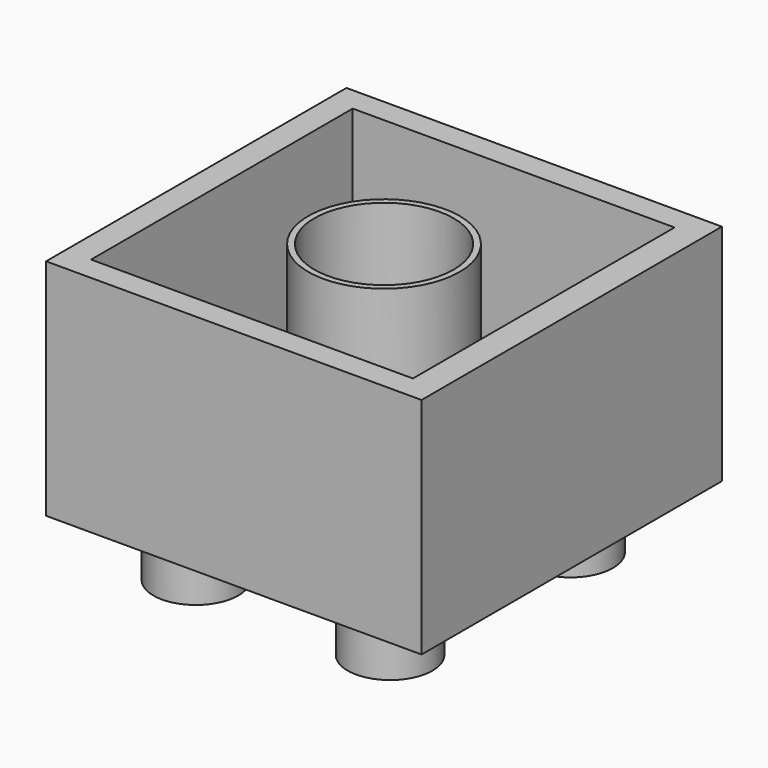
from build123d import *

# Parameters (mm, degrees)
F0_W     = 15.748
F0_H     = 15.748
F0_W_2   = 13.499342
F0_H_2   = 13.716
F1_DEPTH = 9.398
F0_R     = 3.175
F0_R_2   = 2.921
F2_DEPTH = 9.398
F3_W     = 13.579066
F3_H     = 13.832018
F4_DEPTH = 0.1
F5_R     = 1.778
F6_DEPTH = 2.54


with BuildPart() as f1:
    # F0 (on Top) → F1 (new body)
    with BuildSketch(Plane.XY):
        with Locations((-7.874, -33.232593)):
            Rectangle(F0_W, F0_H)
        with Locations((-7.923433, -33.232593)):
            Rectangle(F0_W_2, F0_H_2, mode=Mode.SUBTRACT)
    extrude(amount=F1_DEPTH)


with BuildPart() as f2:
    # F0 (on Top) → F2 (new body)
    with BuildSketch(Plane.XY):
        with Locations((-7.874, -33.232593)):
            Circle(F0_R)
        with Locations((-7.874, -33.232593)):
            Circle(F0_R_2, mode=Mode.SUBTRACT)
    extrude(amount=F2_DEPTH)


with BuildPart() as f4:
    # F3 (on Top) → F4 (new body)
    with BuildSketch(Plane.XY):
        with Locations((-7.993951, -33.262994)):
            Rectangle(F3_W, F3_H)
    extrude(amount=F4_DEPTH)

    # F5 (on Top) → F6 (join)
    with BuildSketch(Plane.XY):
        with Locations((-3.830078, -37.968907)):
            Circle(F5_R)
        with Locations((-3.761275, -28.590713)):
            Circle(F5_R)
        with Locations((-12.190933, -28.78669)):
            Circle(F5_R)
        with Locations((-12.124785, -37.785119)):
            Circle(F5_R)
    extrude(amount=-F6_DEPTH)


solid = Compound([f1.part, f2.part, f4.part])
